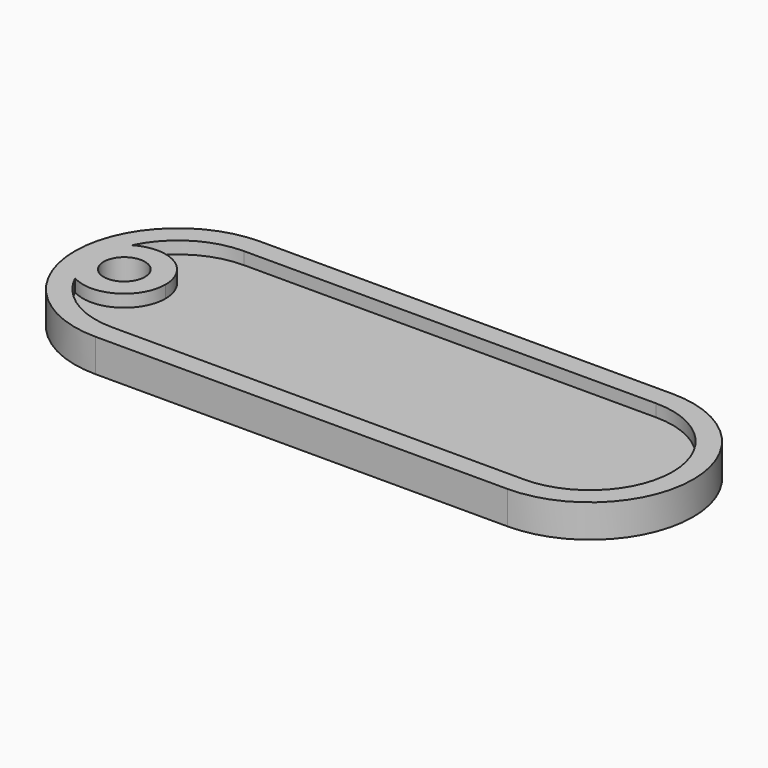
from build123d import *

# Parameters (mm, degrees)
F1_DEPTH = 4
F3_DEPTH = 1.5
F5_DEPTH = 1.5
F6_DEPTH = 1.5
F7_R     = 2.5
F8_DEPTH = 25


with BuildPart() as f1:
    # F0 (on Top) → F1 (new body)
    with BuildSketch(Plane.XY):
        with BuildLine():
            ThreePointArc((12.5, 25), (0, 12.5), (12.5, 0))
            Line((12.5, 0), (62.5, 0))
            ThreePointArc((62.5, 0), (75, 12.5), (62.5, 25))
            Line((62.5, 25), (12.5, 25))
        make_face()
    extrude(amount=F1_DEPTH)

    # F2 (on face) → F3 (cut)
    with BuildSketch(Plane.XY.offset(4)):
        with BuildLine():
            Line((62.5, 22.5), (12.5, 22.5))
            ThreePointArc((12.5, 22.5), (2.5, 12.5), (12.5, 2.5))
            Line((12.5, 2.5), (62.5, 2.5))
            ThreePointArc((62.5, 2.5), (72.5, 12.5), (62.5, 22.5))
        make_face()
    extrude(amount=-F3_DEPTH, mode=Mode.SUBTRACT)

    # F4 (on face) → F5 (join)
    with BuildSketch(Plane.XY.offset(2.5)):
        with BuildLine():
            ThreePointArc((3.4807692308, 8.1810329555), (2.5, 12.5), (3.4807692308, 16.8189670445))
            ThreePointArc((3.4807692308, 16.8189670445), (1, 12.5), (3.4807692308, 8.1810329555))
        make_face()
    extrude(amount=F5_DEPTH)

    # F4 (on face) → F6 (join)
    with BuildSketch(Plane.XY.offset(2.5)):
        with BuildLine():
            ThreePointArc((3.4807692308, 8.1810329555), (8.4903660528, 8.1643250902), (11, 12.5))
            ThreePointArc((11, 12.5), (8.4903660528, 16.8356749098), (3.4807692308, 16.8189670445))
            ThreePointArc((3.4807692308, 16.8189670445), (2.5, 12.5), (3.4807692308, 8.1810329555))
        make_face()
    extrude(amount=F6_DEPTH)

    # F7 (on face) → F8 (cut)
    with BuildSketch(Plane.XY.offset(4)):
        with Locations((6, 12.5)):
            Circle(F7_R)
    extrude(amount=-F8_DEPTH, mode=Mode.SUBTRACT)


solid = f1.part
